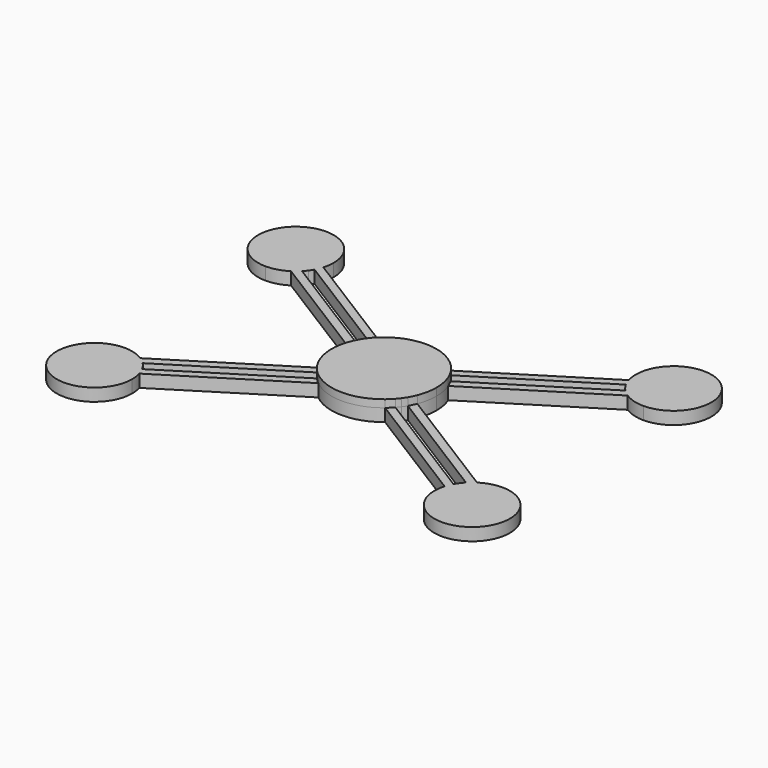
from build123d import *

# Parameters (mm, degrees)
F1_DEPTH = 8
F2_DEPTH = 5


with BuildPart() as f1:
    # F0 (on Top) → F1 (new body)
    with BuildSketch(Plane.XY):
        with BuildLine():
            ThreePointArc((25.8218274264, -11.9788249413), (26.9159887383, -8.214169835), (27.285070702, -4.3111459369))
            ThreePointArc((27.285070702, -4.3111459369), (26.9159887383, -0.4081220387), (25.8218274264, 3.3565330675))
            ThreePointArc((25.8218274264, 3.3565330675), (25.163790077, 4.8451330019), (24.3914933518, 6.2777881196))
            ThreePointArc((24.3914933518, 6.2777881196), (23.8622519529, 7.1265995546), (23.2928555336, 7.9490137011))
            ThreePointArc((23.2928555336, 7.9490137011), (22.6846182097, 8.7431325011), (22.0389437384, 9.5071231998))
            ThreePointArc((22.0389437384, 9.5071231998), (20.9271256495, 10.6669312969), (19.7291910596, 11.7375605526))
            ThreePointArc((19.7291910596, 11.7375605526), (6.463385336, 16.5105394291), (-6.8024203875, 11.7375605526))
            ThreePointArc((-6.8024203875, 11.7375605526), (-8.0003549775, 10.6669312969), (-9.1121730663, 9.5071231998))
            ThreePointArc((-9.1121730663, 9.5071231998), (-9.7578475377, 8.7431325011), (-10.3660848615, 7.9490137011))
            ThreePointArc((-10.3660848615, 7.9490137011), (-10.9354812808, 7.1265995546), (-11.4647226798, 6.2777881196))
            ThreePointArc((-11.4647226798, 6.2777881196), (-12.2370194049, 4.8451330019), (-12.8950567543, 3.3565330675))
            ThreePointArc((-12.8950567543, 3.3565330675), (-14.3583000299, -4.3111459369), (-12.8950567543, -11.9788249413))
            ThreePointArc((-12.8950567543, -11.9788249413), (-12.2370194049, -13.4674248757), (-11.4647226798, -14.9000799934))
            ThreePointArc((-11.4647226798, -14.9000799934), (-10.9354812808, -15.7488914284), (-10.3660848615, -16.5713055749))
            ThreePointArc((-10.3660848615, -16.5713055749), (-9.7578475377, -17.3654243749), (-9.1121730663, -18.1294150736))
            ThreePointArc((-9.1121730663, -18.1294150736), (-8.0003549775, -19.2892231707), (-6.8024203875, -20.3598524263))
            ThreePointArc((-6.8024203875, -20.3598524263), (6.463385336, -25.1328313029), (19.7291910596, -20.3598524263))
            ThreePointArc((19.7291910596, -20.3598524263), (20.9271256495, -19.2892231707), (22.0389437384, -18.1294150736))
            ThreePointArc((22.0389437384, -18.1294150736), (22.6846182097, -17.3654243749), (23.2928555336, -16.5713055749))
            ThreePointArc((23.2928555336, -16.5713055749), (23.8622519529, -15.7488914284), (24.3914933518, -14.9000799934))
            ThreePointArc((24.3914933518, -14.9000799934), (25.163790077, -13.4674248757), (25.8218274264, -11.9788249413))
        make_face()
    extrude(amount=F1_DEPTH)


with BuildPart() as f2:
    # F0 (on Top) → F2 (new body)
    with BuildSketch(Plane.XY):
        with BuildLine():
            ThreePointArc((24.3914933518, 6.2777881196), (25.163790077, 4.8451330019), (25.8218274264, 3.3565330675))
            Line((25.8218274264, 3.3565330675), (73.3206508225, 33.0913989772))
            ThreePointArc((73.3206508225, 33.0913989772), (71.9329417181, 34.105648788), (70.6703753539, 35.2719958263))
            Line((70.6703753539, 35.2719958263), (24.3914933518, 6.2777881196))
        make_face()
        with BuildLine():
            ThreePointArc((19.7291910596, 11.7375605526), (20.9271256495, 10.6669312969), (22.0389437384, 9.5071231998))
            Line((22.0389437384, 9.5071231998), (68.3054091022, 38.4869333867))
            ThreePointArc((68.3054091022, 38.4869333867), (67.6230720145, 39.9056259712), (67.0931796762, 41.38801818))
            Line((67.0931796762, 41.38801818), (19.7291910596, 11.7375605526))
        make_face()
        with BuildLine():
            Line((81.463385336, 38.1888540631), (81.463385336, 30.6888540631))
            ThreePointArc((81.463385336, 30.6888540631), (92.0699870538, 35.0822523453), (96.463385336, 45.6888540631))
            ThreePointArc((96.463385336, 45.6888540631), (81.463385336, 60.6888540631), (66.463385336, 45.6888540631))
            Line((66.463385336, 45.6888540631), (73.963385336, 45.6888540631))
            Line((73.963385336, 45.6888540631), (81.463385336, 45.6888540631))
            Line((81.463385336, 45.6888540631), (81.463385336, 38.1888540631))
        make_face()
        with BuildLine():
            ThreePointArc((70.6703753539, 35.2719958263), (71.9329417181, 34.105648788), (73.3206508225, 33.0913989772))
            Line((73.3206508225, 33.0913989772), (81.463385336, 38.1888540631))
            Line((81.463385336, 38.1888540631), (81.463385336, 45.6888540631))
            Line((81.463385336, 45.6888540631), (73.963385336, 45.6888540631))
            Line((73.963385336, 45.6888540631), (67.0931796762, 41.38801818))
            ThreePointArc((67.0931796762, 41.38801818), (67.6230720145, 39.9056259712), (68.3054091022, 38.4869333867))
            ThreePointArc((68.3054091022, 38.4869333867), (68.8148096557, 37.6257570614), (69.3804887024, 36.8004566293))
            ThreePointArc((69.3804887024, 36.8004566293), (69.9999293135, 36.0147041769), (70.6703753539, 35.2719958263))
        make_face()
        with BuildLine():
            Line((81.463385336, 38.1888540631), (73.3206508225, 33.0913989772))
            ThreePointArc((73.3206508225, 33.0913989772), (77.2184958374, 31.3020228225), (81.463385336, 30.6888540631))
            Line((81.463385336, 30.6888540631), (81.463385336, 38.1888540631))
        make_face()
        with BuildLine():
            Line((73.963385336, 45.6888540631), (66.463385336, 45.6888540631))
            ThreePointArc((66.463385336, 45.6888540631), (66.6216690455, 43.5155023771), (67.0931796762, 41.38801818))
            Line((67.0931796762, 41.38801818), (73.963385336, 45.6888540631))
        make_face()
        with BuildLine():
            Line((-61.036614664, 45.6888540631), (-53.536614664, 45.6888540631))
            ThreePointArc((-53.536614664, 45.6888540631), (-79.1432163818, 56.2954557809), (-68.536614664, 30.6888540631))
            Line((-68.536614664, 30.6888540631), (-68.536614664, 38.1888540631))
            Line((-68.536614664, 38.1888540631), (-68.536614664, 45.6888540631))
            Line((-68.536614664, 45.6888540631), (-61.036614664, 45.6888540631))
        make_face()
        with BuildLine():
            ThreePointArc((-55.3786384301, 38.4869333867), (-54.6963013425, 39.9056259712), (-54.1664090041, 41.38801818))
            Line((-54.1664090041, 41.38801818), (-61.036614664, 45.6888540631))
            Line((-61.036614664, 45.6888540631), (-68.536614664, 45.6888540631))
            Line((-68.536614664, 45.6888540631), (-68.536614664, 38.1888540631))
            Line((-68.536614664, 38.1888540631), (-60.3938801505, 33.0913989772))
            ThreePointArc((-60.3938801505, 33.0913989772), (-59.006171046, 34.105648788), (-57.7436046819, 35.2719958263))
            ThreePointArc((-57.7436046819, 35.2719958263), (-57.0731586415, 36.0147041769), (-56.4537180304, 36.8004566293))
            ThreePointArc((-56.4537180304, 36.8004566293), (-55.8880389836, 37.6257570614), (-55.3786384301, 38.4869333867))
        make_face()
        with BuildLine():
            ThreePointArc((-54.1664090041, 41.38801818), (-53.6948983734, 43.5155023771), (-53.536614664, 45.6888540631))
            Line((-53.536614664, 45.6888540631), (-61.036614664, 45.6888540631))
            Line((-61.036614664, 45.6888540631), (-54.1664090041, 41.38801818))
        make_face()
        with BuildLine():
            Line((-68.536614664, 38.1888540631), (-68.536614664, 30.6888540631))
            ThreePointArc((-68.536614664, 30.6888540631), (-64.2917251654, 31.3020228225), (-60.3938801505, 33.0913989772))
            Line((-60.3938801505, 33.0913989772), (-68.536614664, 38.1888540631))
        make_face()
        with BuildLine():
            ThreePointArc((-57.7436046819, 35.2719958263), (-59.006171046, 34.105648788), (-60.3938801505, 33.0913989772))
            Line((-60.3938801505, 33.0913989772), (-12.8950567543, 3.3565330675))
            ThreePointArc((-12.8950567543, 3.3565330675), (-12.2370194049, 4.8451330019), (-11.4647226798, 6.2777881196))
            Line((-11.4647226798, 6.2777881196), (-57.7436046819, 35.2719958263))
        make_face()
        with BuildLine():
            ThreePointArc((-9.1121730663, 9.5071231998), (-8.0003549775, 10.6669312969), (-6.8024203875, 11.7375605526))
            Line((-6.8024203875, 11.7375605526), (-54.1664090041, 41.38801818))
            ThreePointArc((-54.1664090041, 41.38801818), (-54.6963013425, 39.9056259712), (-55.3786384301, 38.4869333867))
            Line((-55.3786384301, 38.4869333867), (-9.1121730663, 9.5071231998))
        make_face()
        with BuildLine():
            ThreePointArc((25.8218274264, -11.9788249413), (26.9159887383, -8.214169835), (27.285070702, -4.3111459369))
            ThreePointArc((27.285070702, -4.3111459369), (26.9159887383, -0.4081220387), (25.8218274264, 3.3565330675))
            ThreePointArc((25.8218274264, 3.3565330675), (25.163790077, 4.8451330019), (24.3914933518, 6.2777881196))
            ThreePointArc((24.3914933518, 6.2777881196), (23.8622519529, 7.1265995546), (23.2928555336, 7.9490137011))
            ThreePointArc((23.2928555336, 7.9490137011), (22.6846182097, 8.7431325011), (22.0389437384, 9.5071231998))
            ThreePointArc((22.0389437384, 9.5071231998), (20.9271256495, 10.6669312969), (19.7291910596, 11.7375605526))
            ThreePointArc((19.7291910596, 11.7375605526), (6.463385336, 16.5105394291), (-6.8024203875, 11.7375605526))
            ThreePointArc((-6.8024203875, 11.7375605526), (-8.0003549775, 10.6669312969), (-9.1121730663, 9.5071231998))
            ThreePointArc((-9.1121730663, 9.5071231998), (-9.7578475377, 8.7431325011), (-10.3660848615, 7.9490137011))
            ThreePointArc((-10.3660848615, 7.9490137011), (-10.9354812808, 7.1265995546), (-11.4647226798, 6.2777881196))
            ThreePointArc((-11.4647226798, 6.2777881196), (-12.2370194049, 4.8451330019), (-12.8950567543, 3.3565330675))
            ThreePointArc((-12.8950567543, 3.3565330675), (-14.3583000299, -4.3111459369), (-12.8950567543, -11.9788249413))
            ThreePointArc((-12.8950567543, -11.9788249413), (-12.2370194049, -13.4674248757), (-11.4647226798, -14.9000799934))
            ThreePointArc((-11.4647226798, -14.9000799934), (-10.9354812808, -15.7488914284), (-10.3660848615, -16.5713055749))
            ThreePointArc((-10.3660848615, -16.5713055749), (-9.7578475377, -17.3654243749), (-9.1121730663, -18.1294150736))
            ThreePointArc((-9.1121730663, -18.1294150736), (-8.0003549775, -19.2892231707), (-6.8024203875, -20.3598524263))
            ThreePointArc((-6.8024203875, -20.3598524263), (6.463385336, -25.1328313029), (19.7291910596, -20.3598524263))
            ThreePointArc((19.7291910596, -20.3598524263), (20.9271256495, -19.2892231707), (22.0389437384, -18.1294150736))
            ThreePointArc((22.0389437384, -18.1294150736), (22.6846182097, -17.3654243749), (23.2928555336, -16.5713055749))
            ThreePointArc((23.2928555336, -16.5713055749), (23.8622519529, -15.7488914284), (24.3914933518, -14.9000799934))
            ThreePointArc((24.3914933518, -14.9000799934), (25.163790077, -13.4674248757), (25.8218274264, -11.9788249413))
        make_face()
        with BuildLine():
            Line((-12.8950567543, -11.9788249413), (-60.3938801505, -41.7136908509))
            ThreePointArc((-60.3938801505, -41.7136908509), (-59.006171046, -42.7279406618), (-57.7436046819, -43.8942877001))
            Line((-57.7436046819, -43.8942877001), (-11.4647226798, -14.9000799934))
            ThreePointArc((-11.4647226798, -14.9000799934), (-12.2370194049, -13.4674248757), (-12.8950567543, -11.9788249413))
        make_face()
        with BuildLine():
            Line((-54.1664090041, -50.0103100538), (-6.8024203875, -20.3598524263))
            ThreePointArc((-6.8024203875, -20.3598524263), (-8.0003549775, -19.2892231707), (-9.1121730663, -18.1294150736))
            Line((-9.1121730663, -18.1294150736), (-55.3786384301, -47.1092252605))
            ThreePointArc((-55.3786384301, -47.1092252605), (-54.6963013425, -48.527917845), (-54.1664090041, -50.0103100538))
        make_face()
        with BuildLine():
            Line((68.3054091022, -47.1092252605), (22.0389437384, -18.1294150736))
            ThreePointArc((22.0389437384, -18.1294150736), (20.9271256495, -19.2892231707), (19.7291910596, -20.3598524263))
            Line((19.7291910596, -20.3598524263), (67.0931796762, -50.0103100538))
            ThreePointArc((67.0931796762, -50.0103100538), (67.6230720145, -48.527917845), (68.3054091022, -47.1092252605))
        make_face()
        with BuildLine():
            Line((73.3206508225, -41.713690851), (25.8218274264, -11.9788249413))
            ThreePointArc((25.8218274264, -11.9788249413), (25.163790077, -13.4674248757), (24.3914933518, -14.9000799934))
            Line((24.3914933518, -14.9000799934), (70.6703753539, -43.8942877001))
            ThreePointArc((70.6703753539, -43.8942877001), (71.9329417181, -42.7279406618), (73.3206508225, -41.7136908509))
        make_face()
        with BuildLine():
            ThreePointArc((96.463385336, -54.3111459369), (92.0699870538, -43.7045442191), (81.463385336, -39.3111459369))
            Line((81.463385336, -39.3111459369), (81.463385336, -46.8111459369))
            Line((81.463385336, -46.8111459369), (81.463385336, -54.3111459369))
            Line((81.463385336, -54.3111459369), (73.963385336, -54.3111459369))
            Line((73.963385336, -54.3111459369), (66.463385336, -54.3111459369))
            ThreePointArc((66.463385336, -54.3111459369), (81.463385336, -69.3111459369), (96.463385336, -54.3111459369))
        make_face()
        with BuildLine():
            Line((81.463385336, -46.8111459369), (73.3206508225, -41.713690851))
            ThreePointArc((73.3206508225, -41.7136908509), (71.9329417181, -42.7279406618), (70.6703753539, -43.8942877001))
            ThreePointArc((70.6703753539, -43.8942877001), (69.9999293135, -44.6369960507), (69.3804887024, -45.4227485031))
            ThreePointArc((69.3804887024, -45.4227485031), (68.8148096557, -46.2480489352), (68.3054091022, -47.1092252605))
            ThreePointArc((68.3054091022, -47.1092252605), (67.6230720145, -48.527917845), (67.0931796762, -50.0103100538))
            Line((67.0931796762, -50.0103100538), (73.963385336, -54.3111459369))
            Line((73.963385336, -54.3111459369), (81.463385336, -54.3111459369))
            Line((81.463385336, -54.3111459369), (81.463385336, -46.8111459369))
        make_face()
        with BuildLine():
            ThreePointArc((81.463385336, -39.3111459369), (77.2184958374, -39.9243146963), (73.3206508225, -41.7136908509))
            Line((73.3206508225, -41.713690851), (81.463385336, -46.8111459369))
            Line((81.463385336, -46.8111459369), (81.463385336, -39.3111459369))
        make_face()
        with BuildLine():
            ThreePointArc((67.0931796762, -50.0103100538), (66.6216690455, -52.1377942509), (66.463385336, -54.3111459369))
            Line((66.463385336, -54.3111459369), (73.963385336, -54.3111459369))
            Line((73.963385336, -54.3111459369), (67.0931796762, -50.0103100538))
        make_face()
        with BuildLine():
            ThreePointArc((-68.536614664, -39.3111459369), (-79.1432163818, -64.9177476547), (-53.536614664, -54.3111459369))
            Line((-53.536614664, -54.3111459369), (-61.036614664, -54.3111459369))
            Line((-61.036614664, -54.3111459369), (-68.536614664, -54.3111459369))
            Line((-68.536614664, -54.3111459369), (-68.536614664, -46.8111459369))
            Line((-68.536614664, -46.8111459369), (-68.536614664, -39.3111459369))
        make_face()
        with BuildLine():
            Line((-61.036614664, -54.3111459369), (-54.1664090041, -50.0103100538))
            ThreePointArc((-54.1664090041, -50.0103100538), (-54.6963013425, -48.527917845), (-55.3786384301, -47.1092252605))
            ThreePointArc((-55.3786384301, -47.1092252605), (-55.8880389836, -46.2480489352), (-56.4537180304, -45.4227485031))
            ThreePointArc((-56.4537180304, -45.4227485031), (-57.0731586415, -44.6369960507), (-57.7436046819, -43.8942877001))
            ThreePointArc((-57.7436046819, -43.8942877001), (-59.006171046, -42.7279406618), (-60.3938801505, -41.7136908509))
            Line((-60.3938801505, -41.7136908509), (-68.536614664, -46.8111459369))
            Line((-68.536614664, -46.8111459369), (-68.536614664, -54.3111459369))
            Line((-68.536614664, -54.3111459369), (-61.036614664, -54.3111459369))
        make_face()
        with BuildLine():
            ThreePointArc((-60.3938801505, -41.7136908509), (-64.2917251654, -39.9243146963), (-68.536614664, -39.3111459369))
            Line((-68.536614664, -39.3111459369), (-68.536614664, -46.8111459369))
            Line((-68.536614664, -46.8111459369), (-60.3938801505, -41.7136908509))
        make_face()
        with BuildLine():
            Line((-61.036614664, -54.3111459369), (-53.536614664, -54.3111459369))
            ThreePointArc((-53.536614664, -54.3111459369), (-53.6948983734, -52.1377942509), (-54.1664090041, -50.0103100538))
            Line((-54.1664090041, -50.0103100538), (-61.036614664, -54.3111459369))
        make_face()
    extrude(amount=F2_DEPTH)


solid = Compound([f1.part, f2.part])
